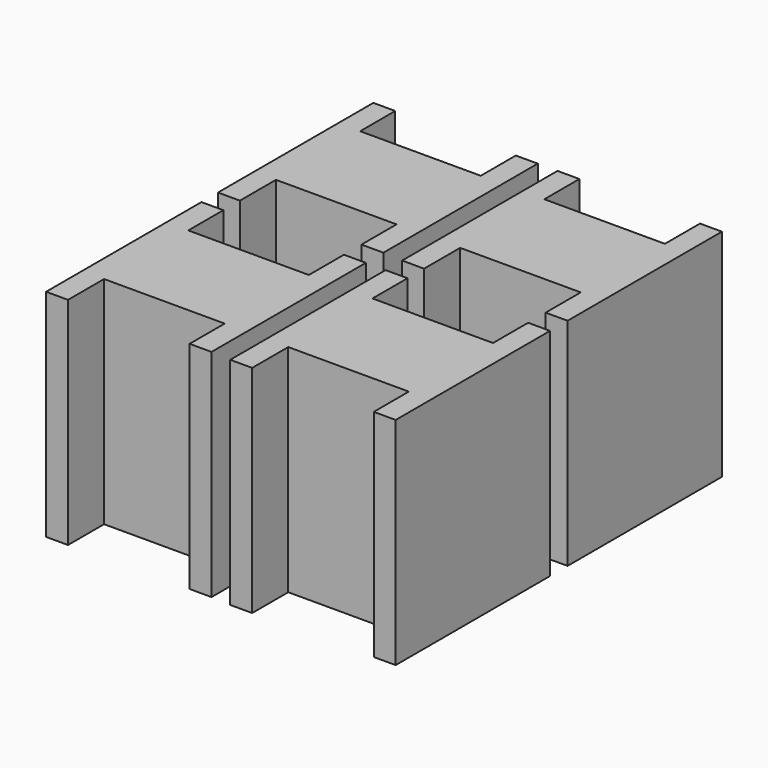
from build123d import *

# Parameters (mm, degrees)
F0_W     = 13.97
F0_H     = 12.192
F1_DEPTH = 25.0063


with BuildPart() as f1:
    # F0 (on Top) → F1 (new body)
    with BuildSketch(Plane.XY):
        Polygon((6.985, 11.176), (6.985, 6.096), (6.985, -6.096), (6.985, -11.176), (9.525, -11.176), (9.525, 11.176), align=None)
        Rectangle(F0_W, F0_H)
        Polygon((-6.985, -6.096), (-6.985, 6.096), (-6.985, 11.176), (-9.525, 11.176), (-9.525, -11.320192), (-6.985, -11.320192), align=None)
    extrude(amount=F1_DEPTH)


with BuildPart() as f2_1:
    # F2: copy of F1
    add(f1.part.moved(Location((0, 24.892, 0))))


with BuildPart() as f3_1:
    # F3: copy of F1
    add(f1.part.moved(Location((39.116, 0, 0))))


with BuildPart() as f4_1:
    # F4: copy of F2_1
    add(f2_1.part.moved(Location((39.116, -0.254, 0))))


with BuildPart() as f6_1:
    # F6: copy of F1
    add(f1.part.moved(Location((21.336, 0, 0))))


with BuildPart() as f7_1:
    # F7: copy of F2_1
    add(f2_1.part.moved(Location((21.336, 0, 0))))


solid = Compound([f1.part, f2_1.part, f6_1.part, f7_1.part])
